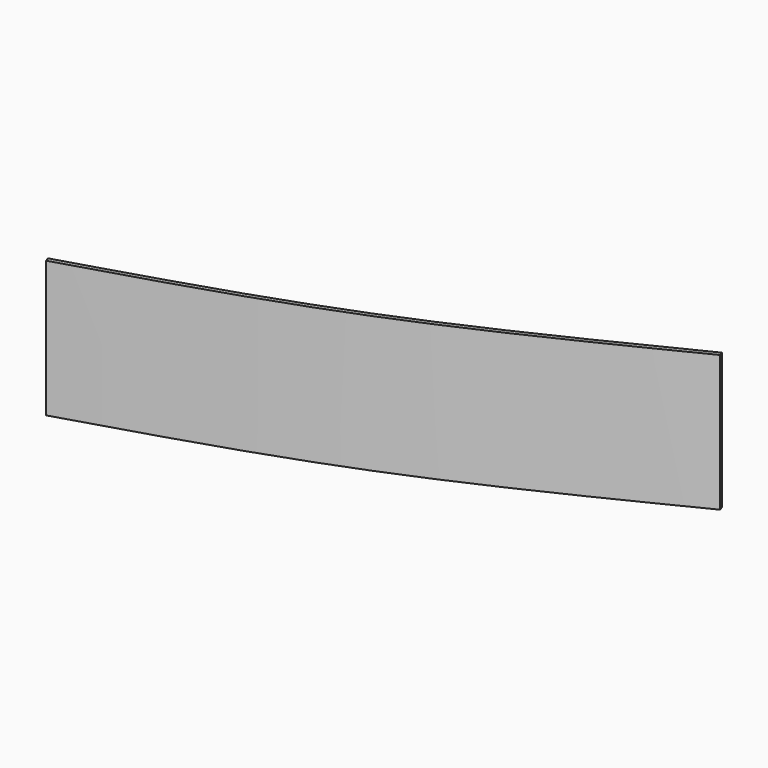
from build123d import *

# Parameters (mm, degrees)
F1_DEPTH = 406.4


with BuildPart() as f1:
    # F0 (on Top) → F1 (new body)
    with BuildSketch(Plane.XY):
        with BuildLine():
            Line((-1528.3436558202, 11.934096284), (-1524, 0))
            add(Edge.make_bspline(
                [(-1524, 0), (-1268.5778153048, 76.9606963867), (-1013.1556306097, 153.9213927733), (-762, 254)],
                knots=[0, 0, 0, 0, 0.4942710514, 0.4942710514, 0.4942710514, 0.4942710514], degree=3))
            Line((-762, 254), (-766.3436558202, 265.934096284))
            add(Edge.make_bspline(
                [(-1528.3436558202, 11.934096284), (-1272.9214711251, 88.8947926706), (-1017.4992864299, 165.8554890573), (-766.3436558202, 265.934096284)],
                knots=[0, 0, 0, 0, 0.4942710514, 0.4942710514, 0.4942710514, 0.4942710514], degree=3))
        make_face()
        with BuildLine():
            Line((-766.3436558202, 265.934096284), (-762, 254))
            add(Edge.make_bspline(
                [(-762, 254), (-505.0222291555, 356.3985698904), (-252.5111145777, 482.9992849452), (0, 609.6)],
                knots=[0.4942710514, 0.4942710514, 0.4942710514, 0.4942710514, 1, 1, 1, 1], degree=3))
            Line((0, 609.6), (-4.3436558202, 621.534096284))
            add(Edge.make_bspline(
                [(-766.3436558202, 265.934096284), (-509.3658849757, 368.3326661743), (-256.854770398, 494.9333812292), (-4.3436558202, 621.534096284)],
                knots=[0.4942710514, 0.4942710514, 0.4942710514, 0.4942710514, 1, 1, 1, 1], degree=3))
        make_face()
    extrude(amount=F1_DEPTH)


solid = f1.part
